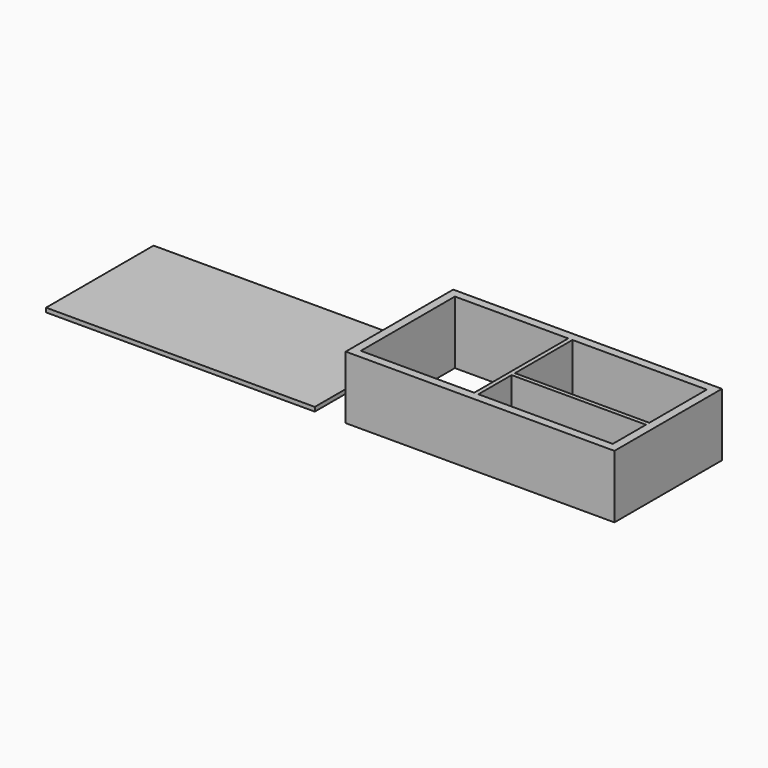
from build123d import *

# Parameters (mm, degrees)
F0_W     = 203.2
F0_H     = 101.6
F1_DEPTH = 3.175
F0_W_2   = 101.6
F0_H_2   = 31.395693
F0_W_3   = 85.725
F0_H_3   = 88.9
F0_H_4   = 54.329307
F2_DEPTH = 47.625


with BuildPart() as f1:
    # F0 (on Top) → F1 (new body)
    with BuildSketch(Plane.XY):
        with Locations((-181.269043, 3.540572)):
            Rectangle(F0_W, F0_H)
    extrude(amount=F1_DEPTH)


with BuildPart() as f2:
    # F0 (on Top) → F2 (new body)
    with BuildSketch(Plane.XY):
        with Locations((45.367662, 3.483918)):
            Rectangle(F0_W, F0_H)
        with Locations((89.817662, -25.268235)):
            Rectangle(F0_W_2, F0_H_2, mode=Mode.SUBTRACT)
        with Locations((-7.019838, 3.483918)):
            Rectangle(F0_W_3, F0_H_3, mode=Mode.SUBTRACT)
        with Locations((89.817662, 20.769264)):
            Rectangle(F0_W_2, F0_H_4, mode=Mode.SUBTRACT)
    extrude(amount=F2_DEPTH)


solid = Compound([f1.part, f2.part])
